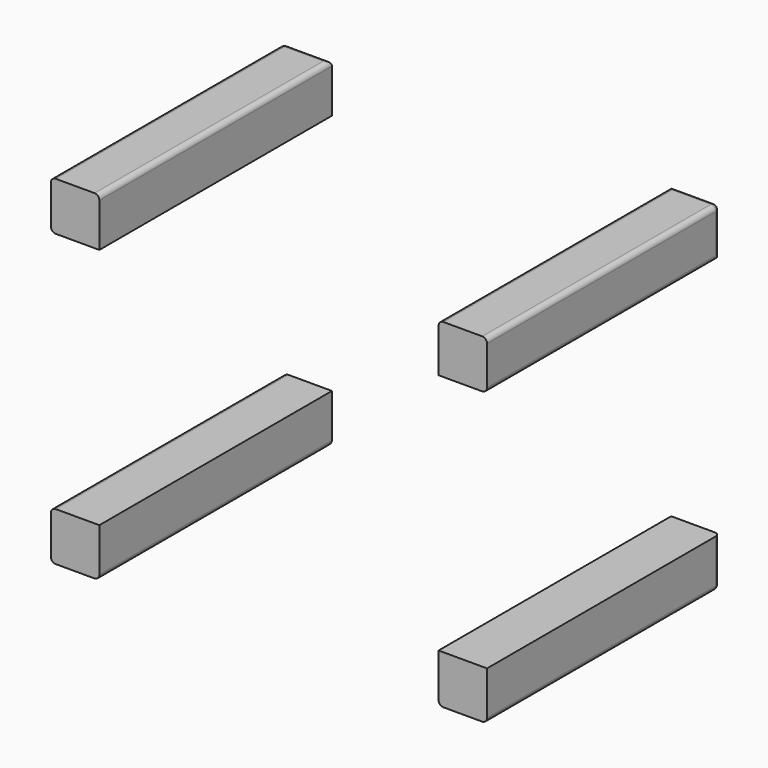
from build123d import *

# Parameters (mm, degrees)
F0_W     = 12.7
F0_H     = 12.7
F1_DEPTH = 76.2
F2_R     = 1.27


with BuildPart() as f1:
    # F0 (on Front) → F1 (new body)
    with BuildSketch(Plane.XZ):
        with Locations((-50.8, 38.1)):
            Rectangle(F0_W, F0_H)
        with Locations((-50.8, -38.1)):
            Rectangle(F0_W, F0_H)
        with Locations((50.8, -38.1)):
            Rectangle(F0_W, F0_H)
        with Locations((50.8, 38.1)):
            Rectangle(F0_W, F0_H)
    extrude(amount=-F1_DEPTH)

    # F2
    f2_edges = [f1.edges().sort_by_distance(p)[0] for p in [
        (-57.15, 38.1, 44.45),
        (-44.45, 38.1, 44.45),
        (57.15, 38.1, 44.45),
        (57.15, 38.1, -44.45),
        (57.15, 38.1, 31.75),
        (44.45, 38.1, -44.45),
        (-57.15, 38.1, -44.45),
        (-57.15, 38.1, 31.75),
        (-50.8, 76.2, -44.45),
        (-57.15, 76.2, 38.1),
        (50.8, 76.2, -44.45),
        (-50.8, 76.2, 44.45),
        (50.8, 76.2, 44.45),
        (44.45, 38.1, 44.45),
        (57.15, 76.2, 38.1),
        (57.15, 76.2, -38.1),
        (-57.15, 76.2, -38.1),
        (-57.15, 38.1, -31.75),
        (-44.45, 38.1, -44.45),
    ]]
    fillet(f2_edges, radius=F2_R)


solid = f1.part
